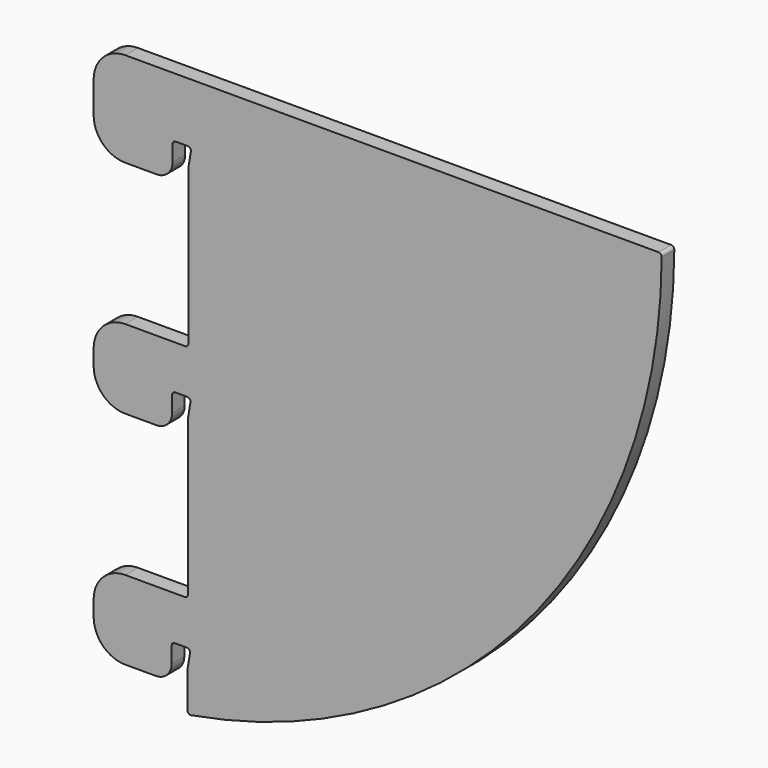
from build123d import *

# Parameters (mm, degrees)
F1_DEPTH = 2.5
F2_R     = 5


with BuildPart() as f1:
    # F0 (on Front) → F1 (new body)
    with BuildSketch(Plane.XZ):
        with BuildLine():
            ThreePointArc((5, 0), (1.464466, -1.464466), (0, -5))
            Line((0, -5), (0, -15))
            Line((0, -15), (10, -15))
            ThreePointArc((10, -15), (11.767767, -14.267767), (12.5, -12.5))
            Line((12.5, -12.5), (12.5, -9.953428))
            ThreePointArc((12.5, -9.953428), (12.646447, -9.599875), (13, -9.453428))
            Line((13, -9.453428), (14.911252, -9.453428))
            ThreePointArc((14.911252, -9.453428), (15.29236, -9.629768), (15.404651, -10.034404))
            Line((15.404651, -10.034404), (15, -12.5))
            Line((15, -12.5), (15, -37))
            ThreePointArc((15, -37), (14.853553, -37.353553), (14.5, -37.5))
            Line((14.5, -37.5), (0, -37.5))
            Line((0, -37.5), (0, -49.999929))
            Line((0, -49.999929), (9.929507, -49.999929))
            ThreePointArc((9.929507, -49.999929), (11.697274, -49.267696), (12.429507, -47.499929))
            Line((12.429507, -47.499929), (12.429507, -44.953357))
            ThreePointArc((12.429507, -44.953357), (12.575953, -44.599804), (12.929507, -44.453357))
            Line((12.929507, -44.453357), (14.840758, -44.453357))
            ThreePointArc((14.840758, -44.453357), (15.221867, -44.629697), (15.334157, -45.034333))
            Line((15.334157, -45.034333), (14.929507, -47.499929))
            Line((14.929507, -47.499929), (14.929507, -71.999929))
            ThreePointArc((14.929507, -71.999929), (14.78306, -72.353482), (14.429507, -72.499929))
            Line((14.429507, -72.499929), (0, -72.499929))
            Line((0, -72.499929), (0, -84.999858))
            Line((0, -84.999858), (9.859013, -84.999858))
            ThreePointArc((9.859013, -84.999858), (11.62678, -84.267625), (12.359013, -82.499858))
            Line((12.359013, -82.499858), (12.359013, -79.953286))
            ThreePointArc((12.359013, -79.953286), (12.50546, -79.599733), (12.859013, -79.453286))
            Line((12.859013, -79.453286), (14.770265, -79.453286))
            ThreePointArc((14.770265, -79.453286), (15.151374, -79.629626), (15.263664, -80.034262))
            Line((15.263664, -80.034262), (14.859013, -82.499858))
            Line((14.859013, -82.499858), (14.859013, -88.172279))
            ThreePointArc((14.859013, -88.172279), (15.037223, -88.554968), (15.444818, -88.664861))
            ThreePointArc((15.444818, -88.664861), (68.722019, -58.114405), (89.998596, -0.502793))
            ThreePointArc((89.998596, -0.502793), (89.853143, -0.147436), (89.498603, 0))
            Line((89.498603, 0), (5, 0))
        make_face()
    extrude(amount=F1_DEPTH)

    # F2
    f2_edges = [f1.edges().sort_by_distance(p)[0] for p in [
        (0, -1.25, -15),
        (0, -1.25, -49.999929),
        (0, -1.25, -37.5),
        (0, -1.25, -84.999858),
        (0, -1.25, -72.499929),
    ]]
    fillet(f2_edges, radius=F2_R)


solid = f1.part
